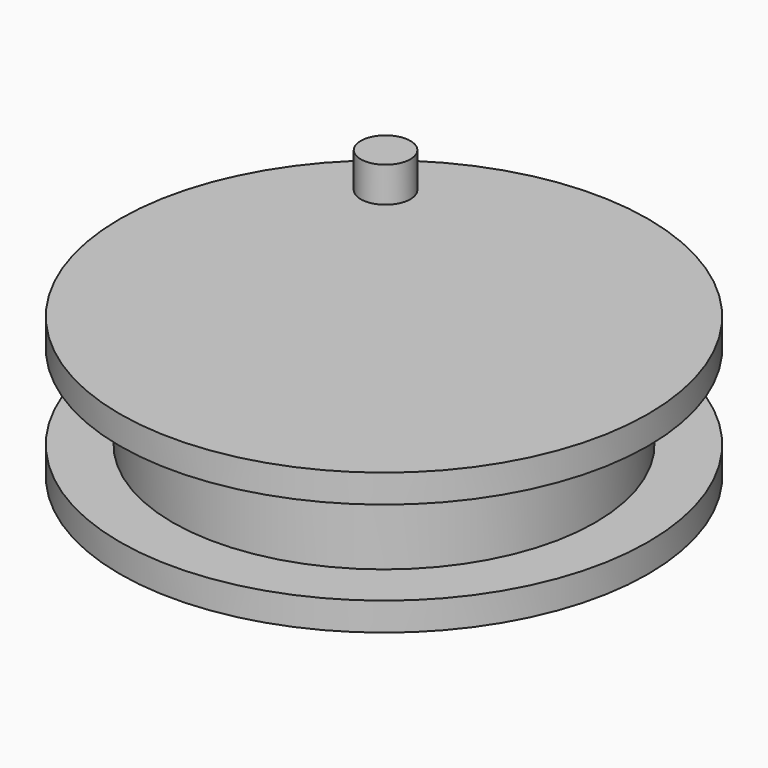
from build123d import *

# Parameters (mm, degrees)
F2_R      = 37.5
F3_DEPTH  = 4
F5_R      = 30
F6_DEPTH  = 12
F8_R      = 37.5
F9_DEPTH  = 4
F15_R     = 3.5296355076
F16_DEPTH = 5


with BuildPart() as f3:
    # F2 (on Top) → F3 (new body)
    with BuildSketch(Plane.XY):
        Circle(F2_R)
    extrude(amount=F3_DEPTH)

    # F5 (on offset) → F6 (join)
    with BuildSketch(Plane.XY.offset(4)):
        Circle(F5_R)
    extrude(amount=F6_DEPTH)

    # F8 (on offset) → F9 (join)
    with BuildSketch(Plane.XY.offset(16)):
        Circle(F8_R)
    extrude(amount=F9_DEPTH)


with BuildPart() as f10_1:
    # F10: copy of F3
    add(f3.part.moved(Location((0, 0, 20))))


with BuildPart() as f12_1:
    # F12: copy of F3
    add(f3.part)


with BuildPart() as f3_1:
    # F14: moved
    add(f3.part.moved(Location((0, 0, 40))))

    # F15 (on face) → F16 (join)
    with BuildSketch(Plane.XY.offset(60)):
        with Locations((-18.8314225525, 23.8138604909)):
            Circle(F15_R)
    extrude(amount=F16_DEPTH)


solid = f3_1.part
